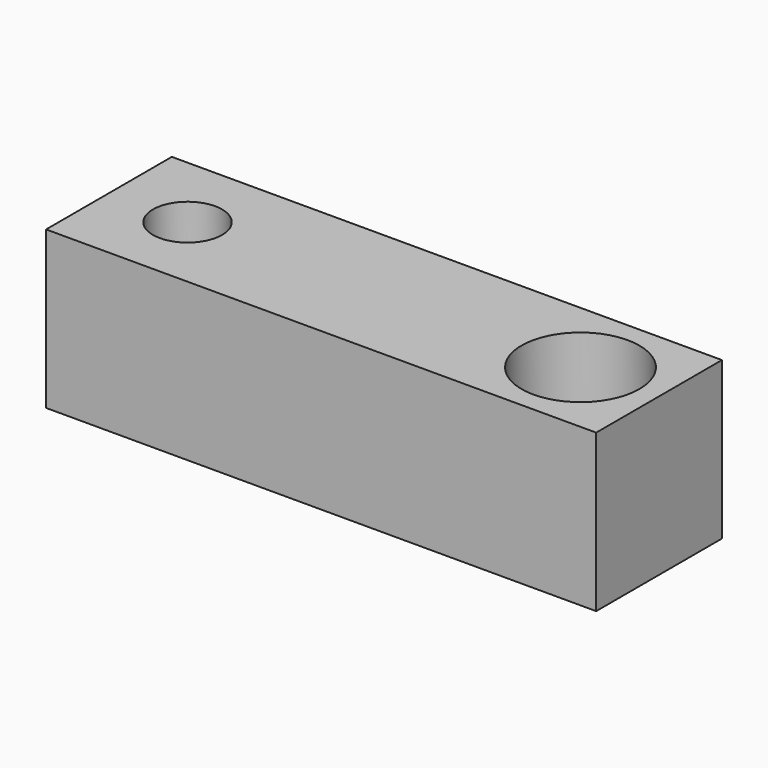
from build123d import *

# Parameters (mm, degrees)
F0_W     = 44.45
F0_H     = 12.7
F1_DEPTH = 12.7
F2_R     = 2.794
F3_DEPTH = 12.701
F4_R     = 2.794
F5_DEPTH = 12.701
F6_R     = 4.7625
F7_DEPTH = 5.08
F8_R     = 4.7625
F9_DEPTH = 5.08


with BuildPart() as f1:
    # F0 (on Top) → F1 (new body)
    with BuildSketch(Plane.XY):
        with Locations((0, -6.35)):
            Rectangle(F0_W, F0_H)
    extrude(amount=F1_DEPTH)

    # F2 (on face) → F3 (cut, through all)
    with BuildSketch(Plane.XY.offset(12.7)):
        with Locations((15.875, -6.35)):
            Circle(F2_R)
    extrude(amount=-F3_DEPTH, mode=Mode.SUBTRACT)

    # F4 (on face) → F5 (cut, through all)
    with BuildSketch(Plane(origin=(0, 0, 0), x_dir=(1, 0, 0), z_dir=(0, 0, -1))):
        with Locations((-15.875, 6.35)):
            Circle(F4_R)
    extrude(amount=-F5_DEPTH, mode=Mode.SUBTRACT)

    # F6 (on face) → F7 (cut)
    with BuildSketch(Plane.XY.offset(12.7)):
        with Locations((15.875, -6.35)):
            Circle(F6_R)
    extrude(amount=-F7_DEPTH, mode=Mode.SUBTRACT)

    # F8 (on face) → F9 (cut)
    with BuildSketch(Plane(origin=(0, 0, 0), x_dir=(1, 0, 0), z_dir=(0, 0, -1))):
        with Locations((-15.875, 6.35)):
            Circle(F8_R)
    extrude(amount=-F9_DEPTH, mode=Mode.SUBTRACT)


solid = f1.part
